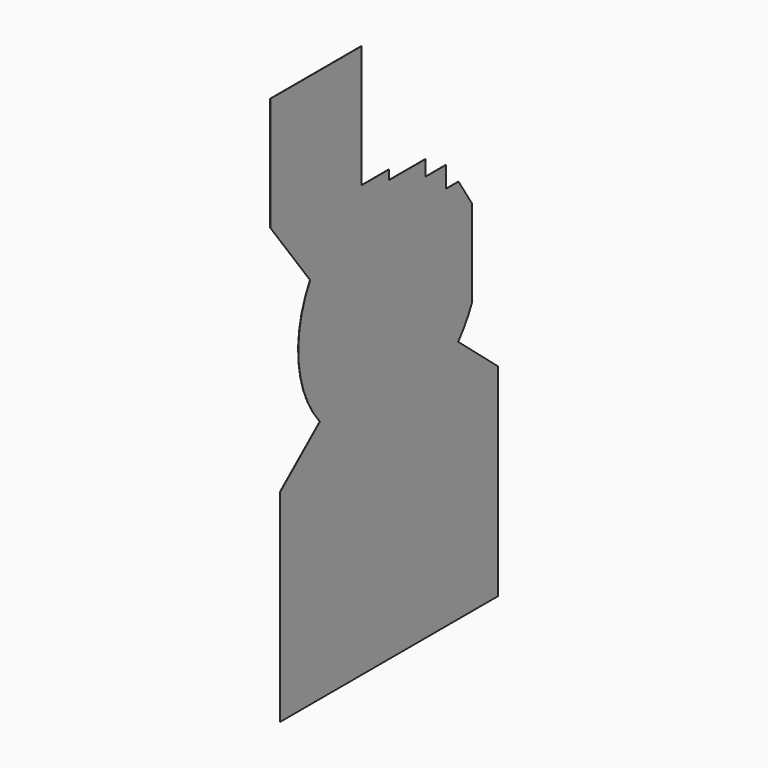
from build123d import *

# Parameters (mm, degrees)
PAD_DEPTH = 1


with BuildPart() as part:
    # Sketch → Pad (new body)
    with BuildSketch(Plane.YZ.offset(500)):
        with BuildLine():
            ThreePointArc((-434.556983, 247.305941), (-497.810755, -46.738128), (-380.9308, -323.869921))
            Line((-380.9308, -323.869921), (-600, -507.690796))
            Line((-600, -507.690796), (-600, -1400))
            Line((-600, -1400), (600, -1400))
            Line((600, -1400), (600, -507.690796))
            Line((600, -507.690796), (380.9308, -323.869921))
            ThreePointArc((380.9308, -323.869921), (424.161816, -264.739029), (458.28967, -199.926432))
            Line((458.28967, 180.073568), (458.28967, -199.926432))
            Line((382.889757, 297.136749), (458.28967, 180.073568))
            Line((312.889757, 297.136749), (382.889757, 297.136749))
            Line((312.889757, 390), (312.889757, 297.136749))
            Line((199.509467, 390), (312.889757, 390))
            Line((199.509467, 458.471343), (199.509467, 390))
            Line((-0.000113, 458.471343), (199.509467, 458.471343))
            Line((-0.000113, 500), (-0.000113, 458.471343))
            Line((-152.007187, 500), (-0.000113, 500))
            Line((-152.007187, 1040), (-152.007187, 500))
            Line((-654.474365, 1040), (-152.007187, 1040))
            Line((-654.474365, 1040), (-654.474365, 540))
            Line((-434.556983, 247.305941), (-654.474365, 540))
        make_face()
    extrude(amount=PAD_DEPTH)


solid = part.part
